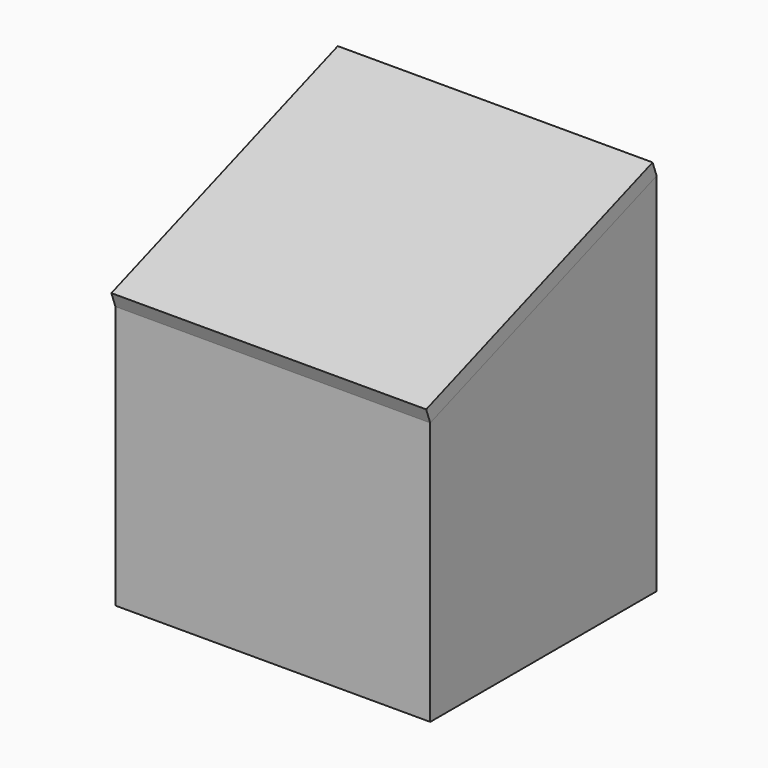
from build123d import *

# Parameters (mm, degrees)
F0_W     = 65.779954
F0_H     = 59.128046
F1_DEPTH = 4.063999
F3_W     = 65.779954
F3_H     = 59.128046
F3_W_2   = 60.038372
F3_H_2   = 53.386464
F4_DEPTH = 72.339199
F6_DEPTH = 65.779954
F7_W     = 65.779954
F7_H     = 62.882481
F8_DEPTH = 3.108938


with BuildPart() as f1:
    # F0 (on Top) → F1 (new body)
    with BuildSketch(Plane.XY):
        with Locations((32.889977, 29.564023)):
            Rectangle(F0_W, F0_H)
    extrude(amount=F1_DEPTH)

    # F3 (on face) → F4 (join)
    with BuildSketch(Plane.XY.offset(4.063999)):
        with Locations((32.889977, 29.564023)):
            Rectangle(F3_W, F3_H)
        with Locations((32.889977, 29.564023)):
            Rectangle(F3_W_2, F3_H_2, mode=Mode.SUBTRACT)
    extrude(amount=F4_DEPTH)

    # F5 (on face) → F6 (cut, through all)
    with BuildSketch(Plane.YZ.offset(65.779954)):
        Polygon((0, 76.403199), (0, 55.00038), (59.128046, 76.403199), align=None)
    extrude(amount=-F6_DEPTH, mode=Mode.SUBTRACT)


with BuildPart() as f8:
    # F7 (on face) → F8 (new body)
    with BuildSketch(Plane(origin=(0, -17.602358, 48.628783), x_dir=(1, 0, 0), z_dir=(0, -0.340362, 0.940294))):
        with Locations((32.889977, 50.16129)):
            Rectangle(F7_W, F7_H)
    extrude(amount=F8_DEPTH)


solid = Compound([f1.part, f8.part])
